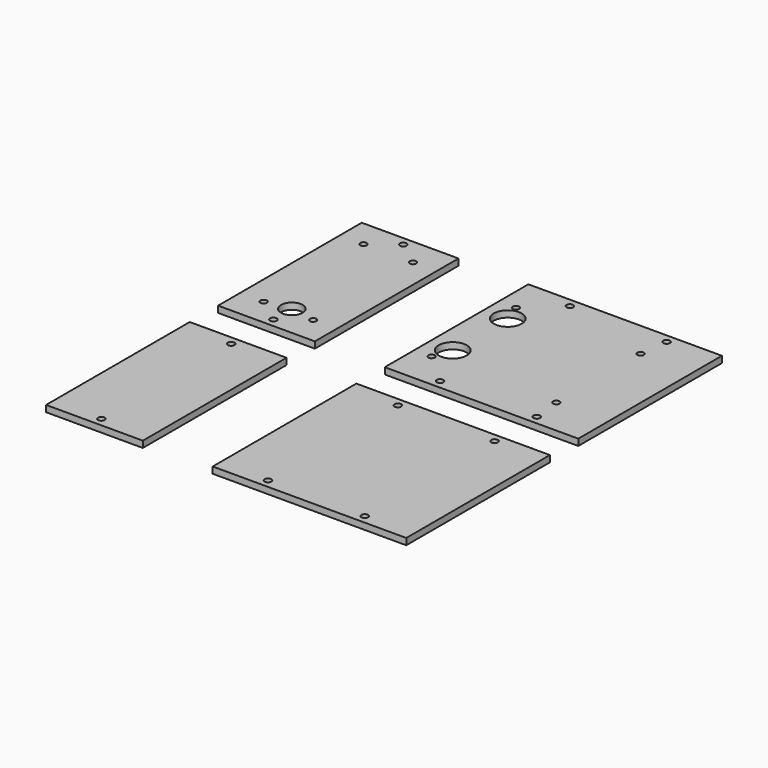
from build123d import *

# Parameters (mm, degrees)
SKETCH_W      = 45
SKETCH_H      = 83.5
SKETCH_R      = 1.55
PAD_DEPTH     = 3
SKETCH001_W   = 90
SKETCH001_H   = 83.5
SKETCH001_R   = 1.55
PAD001_DEPTH  = 3
SKETCH002_W   = 90
SKETCH002_H   = 83.5
SKETCH002_R   = 1.55
SKETCH002_R_2 = 1.5
SKETCH002_R_3 = 6.5
PAD002_DEPTH  = 3
SKETCH003_W   = 45
SKETCH003_H   = 83.5
SKETCH003_R   = 1.55
SKETCH003_R_2 = 1.5
SKETCH003_R_3 = 5
PAD003_DEPTH  = 3


with BuildPart() as body:
    # Sketch → Pad (new body)
    with BuildSketch(Plane.XY):
        Rectangle(SKETCH_W, SKETCH_H)
        with Locations((0, 37.75)):
            Circle(SKETCH_R, mode=Mode.SUBTRACT)
        with Locations((0, -37.75)):
            Circle(SKETCH_R, mode=Mode.SUBTRACT)
    extrude(amount=PAD_DEPTH)


with BuildPart() as body001:
    # Sketch001 → Pad001 (new body)
    with BuildSketch(Plane.XY):
        Rectangle(SKETCH001_W, SKETCH001_H)
        with Locations((-22.5, 37.75)):
            Circle(SKETCH001_R, mode=Mode.SUBTRACT)
        with Locations((-22.5, -37.75)):
            Circle(SKETCH001_R, mode=Mode.SUBTRACT)
        with Locations((22.5, 37.75)):
            Circle(SKETCH001_R, mode=Mode.SUBTRACT)
        with Locations((22.5, -37.75)):
            Circle(SKETCH001_R, mode=Mode.SUBTRACT)
    extrude(amount=PAD001_DEPTH)


with BuildPart() as body001_1:
    # Body001 placement: moved
    add(body001.part.moved(Location((100, 0, 0))))


with BuildPart() as obj1_dual:
    # Sketch002 → Pad002 (new body)
    with BuildSketch(Plane.XY):
        Rectangle(SKETCH002_W, SKETCH002_H)
        with Locations((-22.5, 37.75)):
            Circle(SKETCH002_R, mode=Mode.SUBTRACT)
        with Locations((-22.5, -37.75)):
            Circle(SKETCH002_R, mode=Mode.SUBTRACT)
        with Locations((22.5, 37.75)):
            Circle(SKETCH002_R, mode=Mode.SUBTRACT)
        with Locations((22.5, -37.75)):
            Circle(SKETCH002_R, mode=Mode.SUBTRACT)
        with Locations((-37, 24.5)):
            Circle(SKETCH002_R_2, mode=Mode.SUBTRACT)
        with Locations((21, 24.5)):
            Circle(SKETCH002_R_2, mode=Mode.SUBTRACT)
        with Locations((-37, -24.5)):
            Circle(SKETCH002_R_2, mode=Mode.SUBTRACT)
        with Locations((21, -24.5)):
            Circle(SKETCH002_R_2, mode=Mode.SUBTRACT)
        with Locations((-34, 16)):
            Circle(SKETCH002_R_3, mode=Mode.SUBTRACT)
        with Locations((-34, -16)):
            Circle(SKETCH002_R_3, mode=Mode.SUBTRACT)
    extrude(amount=PAD002_DEPTH)


with BuildPart() as obj1_dual_1:
    # Body002 placement: moved
    add(obj1_dual.part.moved(Location((100, 100, 0))))


with BuildPart() as obj1:
    # Sketch003 → Pad003 (new body)
    with BuildSketch(Plane.XY):
        Rectangle(SKETCH003_W, SKETCH003_H)
        with Locations((0, 37.75)):
            Circle(SKETCH003_R, mode=Mode.SUBTRACT)
        with Locations((0, -37.75)):
            Circle(SKETCH003_R, mode=Mode.SUBTRACT)
        with Locations((-11.5, 29)):
            Circle(SKETCH003_R_2, mode=Mode.SUBTRACT)
        with Locations((11.5, 29)):
            Circle(SKETCH003_R_2, mode=Mode.SUBTRACT)
        with Locations((-11.5, -29)):
            Circle(SKETCH003_R_2, mode=Mode.SUBTRACT)
        with Locations((11.5, -29)):
            Circle(SKETCH003_R_2, mode=Mode.SUBTRACT)
        with Locations((0, -27)):
            Circle(SKETCH003_R_3, mode=Mode.SUBTRACT)
    extrude(amount=PAD003_DEPTH)


with BuildPart() as obj1_1:
    # Body003 placement: moved
    add(obj1.part.moved(Location((0, 100, 0))))


solid = Compound([body.part, body001_1.part, obj1_dual_1.part, obj1_1.part])
